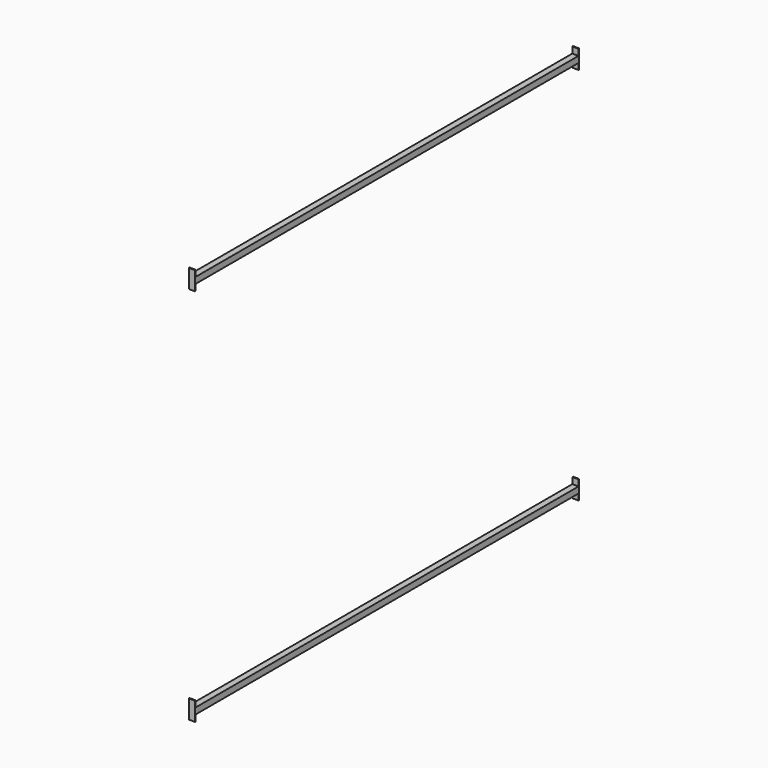
from build123d import *

# Parameters (mm, degrees)
SKETCH022_W      = 20
SKETCH022_H      = 60
EXTRUDE023_DEPTH = 3
SKETCH021_W      = 2000
SKETCH021_H      = 1200
EXTRUDE022_DEPTH = 15
SKETCH020_W      = 1540
SKETCH020_H      = 1240
SKETCH020_W_2    = 1500
SKETCH020_H_2    = 1200
EXTRUDE021_DEPTH = 10


with BuildPart() as extrude023:
    # Sketch022 → Extrude023 (new body)
    with BuildSketch(Plane(origin=(0, 770, 610), x_dir=(-1, 0, 0), z_dir=(0, 1, 0))):
        Rectangle(SKETCH022_W, SKETCH022_H)
        with Locations((0, -1220)):
            Rectangle(SKETCH022_W, SKETCH022_H)
    extrude(amount=EXTRUDE023_DEPTH)


with BuildPart() as extrude022:
    # Sketch021 → Extrude022 (new body, symmetric)
    with BuildSketch(Plane.YZ):
        Rectangle(SKETCH021_W, SKETCH021_H)
    extrude(amount=EXTRUDE022_DEPTH, both=True)


with BuildPart() as cut008:
    # Sketch020 → Extrude021 (new body, symmetric)
    with BuildSketch(Plane.YZ):
        Rectangle(SKETCH020_W, SKETCH020_H)
        Rectangle(SKETCH020_W_2, SKETCH020_H_2, mode=Mode.SUBTRACT)
    extrude(amount=EXTRUDE021_DEPTH, both=True)

    # Cut008: cut Extrude022
    add(extrude022.part, mode=Mode.SUBTRACT)


with BuildPart() as fusion001:
    # Part__Mirroring001: instance of Extrude023
    add(extrude023.part.mirror(Plane(origin=(0, 0, 0), x_dir=(1, 0, 0), z_dir=(0, 1, 0))))

    # Fusion001: union Extrude023, Cut008
    add(extrude023.part)
    add(cut008.part)


solid = fusion001.part
